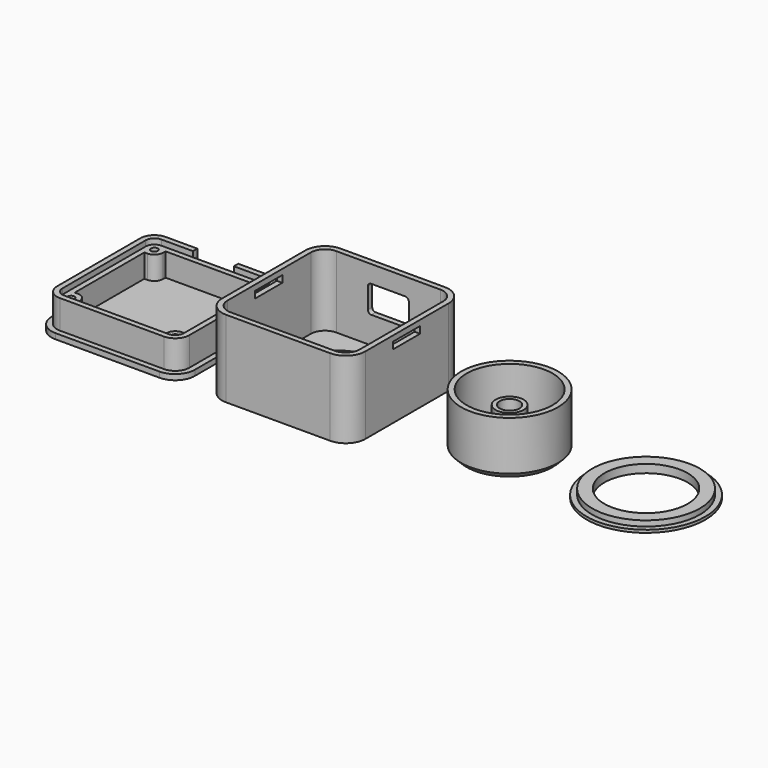
from build123d import *

# Parameters (mm, degrees)
BOX008_W          = 12
BOX008_H          = 10
BOX008_DEPTH      = 8
FILLET007_R       = 1
BOX007_W          = 42
BOX007_H          = 42
BOX007_DEPTH      = 1.6
FILLET006_R       = 5.74
BOX010_W          = 4
BOX010_H          = 10
BOX010_DEPTH      = 2
CHAMFER_SIZE      = 0.8
BOX011_W          = 1.6
BOX011_H          = 10
BOX011_DEPTH      = 2
CHAMFER001_SIZE   = 0.8
CYLINDER001_R     = 1
CYLINDER001_DEPTH = 6.8
CYLINDER002_R     = 1
CYLINDER002_DEPTH = 6.8
CYLINDER003_R     = 1
CYLINDER003_DEPTH = 6.8
CYLINDER_R        = 1
CYLINDER_DEPTH    = 6.8
BOX004_W          = 5.04
BOX004_H          = 5.04
BOX004_DEPTH      = 8.4
FILLET005_R       = 2.54
BOX005_W          = 5.04
BOX005_H          = 5.04
BOX005_DEPTH      = 8.4
FILLET003_R       = 2.54
BOX006_W          = 5.04
BOX006_H          = 5.04
BOX006_DEPTH      = 8.4
FILLET004_R       = 2.54
BOX003_W          = 5.04
BOX003_H          = 5.04
BOX003_DEPTH      = 8.4
FILLET002_R       = 2.54
BOX002_W          = 32.4
BOX002_H          = 32.4
BOX002_DEPTH      = 8.4
BOX001_W          = 35.6
BOX001_H          = 35.6
BOX001_DEPTH      = 1.6
BOX_W             = 38.8
BOX_H             = 38.8
BOX_DEPTH         = 10
FILLET_R          = 2.54
FILLET001_R       = 4.14
CYLINDER011_R     = 12.2
CYLINDER011_DEPTH = 2.4
CYLINDER010_R     = 15.8
CYLINDER010_DEPTH = 2.4
CYLINDER009_R     = 17.4
CYLINDER009_DEPTH = 0.8
CYLINDER008_R     = 2.9
CYLINDER008_DEPTH = 7
CYLINDER007_R     = 4.1
CYLINDER007_DEPTH = 12
CYLINDER006_R     = 12.6
CYLINDER006_DEPTH = 14.4
CYLINDER005_R     = 14.2
CYLINDER005_DEPTH = 16
CHAMFER002_SIZE   = 1.6
CHAMFER003_SIZE   = 1.6
CYLINDER004_R     = 15.8
CYLINDER004_DEPTH = 10
BOX014_W          = 10.4
BOX014_H          = 10
BOX014_DEPTH      = 2
BOX015_W          = 10.4
BOX015_H          = 10
BOX015_DEPTH      = 2
BOX009_W          = 12
BOX009_H          = 10
BOX009_DEPTH      = 8
FILLET008_R       = 1
BOX013_W          = 38.8
BOX013_H          = 38.8
BOX013_DEPTH      = 21
BOX012_W          = 42
BOX012_H          = 42
BOX012_DEPTH      = 22.6
FILLET009_R       = 4.14
FILLET010_R       = 5.74


with BuildPart() as usb:
    # Box008 → Box008 (new body)
    with BuildSketch(Plane(origin=(13.4, 37.2, 7), x_dir=(1, 0, 0), z_dir=(0, 0, 1))):
        with Locations((6, 5)):
            Rectangle(BOX008_W, BOX008_H)
    extrude(amount=BOX008_DEPTH)

    # Fillet007
    fillet007_edges = [usb.edges().sort_by_distance(p)[0] for p in [
        (13.4, 42.2, 15),
        (13.4, 42.2, 7),
        (25.4, 42.2, 15),
        (25.4, 42.2, 7),
    ]]
    fillet(fillet007_edges, radius=FILLET007_R)


with BuildPart() as obj1:
    # Box007 → Box007 (new body)
    with BuildSketch(Plane(origin=(-1.6, -1.6, 0), x_dir=(1, 0, 0), z_dir=(0, 0, 1))):
        with Locations((21, 21)):
            Rectangle(BOX007_W, BOX007_H)
    extrude(amount=BOX007_DEPTH)

    # Fillet006
    fillet006_edges = [obj1.edges().sort_by_distance(p)[0] for p in [
        (-1.6, -1.6, 0.8),
        (-1.6, 40.4, 0.8),
        (40.4, -1.6, 0.8),
        (40.4, 40.4, 0.8),
    ]]
    fillet(fillet006_edges, radius=FILLET006_R)


with BuildPart() as haken1:
    # Box010 → Box010 (new body)
    with BuildSketch(Plane(origin=(-1, 14.4, 3.2), x_dir=(1, 0, 0), z_dir=(0, 0, 1))):
        with Locations((2, 5)):
            Rectangle(BOX010_W, BOX010_H)
    extrude(amount=BOX010_DEPTH)

    # Chamfer
    chamfer_edges = [haken1.edges().sort_by_distance(p)[0] for p in [
        (-1, 19.4, 5.2),
        (-1, 19.4, 3.2),
    ]]
    chamfer(chamfer_edges, length=CHAMFER_SIZE)


with BuildPart() as haken2:
    # Box011 → Box011 (new body)
    with BuildSketch(Plane(origin=(38.2, 14.4, 3.2), x_dir=(1, 0, 0), z_dir=(0, 0, 1))):
        with Locations((0.8, 5)):
            Rectangle(BOX011_W, BOX011_H)
    extrude(amount=BOX011_DEPTH)

    # Chamfer001
    chamfer001_edges = [haken2.edges().sort_by_distance(p)[0] for p in [
        (39.8, 19.4, 5.2),
        (39.8, 19.4, 3.2),
    ]]
    chamfer(chamfer001_edges, length=CHAMFER001_SIZE)


with BuildPart() as cylinder001:
    # Cylinder001 → Cylinder001 (new body)
    with BuildSketch(Plane(origin=(34.66, 4.14, 1.6), x_dir=(1, 0, 0), z_dir=(0, 0, 1))):
        Circle(CYLINDER001_R)
    extrude(amount=CYLINDER001_DEPTH)


with BuildPart() as cylinder002:
    # Cylinder002 → Cylinder002 (new body)
    with BuildSketch(Plane(origin=(4.14, 34.66, 1.6), x_dir=(1, 0, 0), z_dir=(0, 0, 1))):
        Circle(CYLINDER002_R)
    extrude(amount=CYLINDER002_DEPTH)


with BuildPart() as cylinder003:
    # Cylinder003 → Cylinder003 (new body)
    with BuildSketch(Plane(origin=(34.66, 34.66, 1.6), x_dir=(1, 0, 0), z_dir=(0, 0, 1))):
        Circle(CYLINDER003_R)
    extrude(amount=CYLINDER003_DEPTH)


with BuildPart() as obj2:
    # Cylinder → Cylinder (new body)
    with BuildSketch(Plane(origin=(4.14, 4.14, 1.6), x_dir=(1, 0, 0), z_dir=(0, 0, 1))):
        Circle(CYLINDER_R)
    extrude(amount=CYLINDER_DEPTH)

    # Fusion002: union Cylinder001, Cylinder002, Cylinder003
    add(cylinder001.part)
    add(cylinder002.part)
    add(cylinder003.part)


with BuildPart() as obj3:
    # Box004 → Box004 (new body)
    with BuildSketch(Plane(origin=(32.16, 1.6, 0), x_dir=(1, 0, 0), z_dir=(0, 0, 1))):
        with Locations((2.52, 2.52)):
            Rectangle(BOX004_W, BOX004_H)
    extrude(amount=BOX004_DEPTH)

    # Fillet005
    fillet005_edges = [obj3.edges().sort_by_distance(p)[0] for p in [
        (32.16, 6.64, 4.2),
    ]]
    fillet(fillet005_edges, radius=FILLET005_R)


with BuildPart() as obj4:
    # Box005 → Box005 (new body)
    with BuildSketch(Plane(origin=(1.6, 32.16, 0), x_dir=(1, 0, 0), z_dir=(0, 0, 1))):
        with Locations((2.52, 2.52)):
            Rectangle(BOX005_W, BOX005_H)
    extrude(amount=BOX005_DEPTH)

    # Fillet003
    fillet003_edges = [obj4.edges().sort_by_distance(p)[0] for p in [
        (6.64, 32.16, 4.2),
    ]]
    fillet(fillet003_edges, radius=FILLET003_R)


with BuildPart() as obj5:
    # Box006 → Box006 (new body)
    with BuildSketch(Plane(origin=(32.16, 32.16, 0), x_dir=(1, 0, 0), z_dir=(0, 0, 1))):
        with Locations((2.52, 2.52)):
            Rectangle(BOX006_W, BOX006_H)
    extrude(amount=BOX006_DEPTH)

    # Fillet004
    fillet004_edges = [obj5.edges().sort_by_distance(p)[0] for p in [
        (32.16, 32.16, 4.2),
    ]]
    fillet(fillet004_edges, radius=FILLET004_R)


with BuildPart() as obj6:
    # Box003 → Box003 (new body)
    with BuildSketch(Plane(origin=(1.6, 1.6, 0), x_dir=(1, 0, 0), z_dir=(0, 0, 1))):
        with Locations((2.52, 2.52)):
            Rectangle(BOX003_W, BOX003_H)
    extrude(amount=BOX003_DEPTH)

    # Fillet002
    fillet002_edges = [obj6.edges().sort_by_distance(p)[0] for p in [
        (6.64, 6.64, 4.2),
    ]]
    fillet(fillet002_edges, radius=FILLET002_R)

    # Fusion: union obj3, obj4, obj5
    add(obj3.part)
    add(obj4.part)
    add(obj5.part)


with BuildPart() as boden_innen:
    # Box002 → Box002 (new body)
    with BuildSketch(Plane(origin=(3.2, 3.2, 1.6), x_dir=(1, 0, 0), z_dir=(0, 0, 1))):
        with Locations((16.2, 16.2)):
            Rectangle(BOX002_W, BOX002_H)
    extrude(amount=BOX002_DEPTH)


with BuildPart() as boden_auflage:
    # Box001 → Box001 (new body)
    with BuildSketch(Plane(origin=(1.6, 1.6, 8.4), x_dir=(1, 0, 0), z_dir=(0, 0, 1))):
        with Locations((17.8, 17.8)):
            Rectangle(BOX001_W, BOX001_H)
    extrude(amount=BOX001_DEPTH)


with BuildPart() as boden:
    # Box → Box (new body)
    with BuildSketch(Plane.XY):
        with Locations((19.4, 19.4)):
            Rectangle(BOX_W, BOX_H)
    extrude(amount=BOX_DEPTH)

    # Cut: cut Boden_auflage
    add(boden_auflage.part, mode=Mode.SUBTRACT)

    # Cut001: cut Boden_innen
    add(boden_innen.part, mode=Mode.SUBTRACT)

    # Fillet
    fillet_edges = [boden.edges().sort_by_distance(p)[0] for p in [
        (37.2, 1.6, 9.2),
        (37.2, 37.2, 9.2),
        (1.6, 37.2, 9.2),
        (1.6, 1.6, 9.2),
    ]]
    fillet(fillet_edges, radius=FILLET_R)

    # Fillet001
    fillet001_edges = [boden.edges().sort_by_distance(p)[0] for p in [
        (0, 0, 5),
        (0, 38.8, 5),
        (38.8, 38.8, 5),
        (38.8, 0, 5),
    ]]
    fillet(fillet001_edges, radius=FILLET001_R)

    # Fusion001: union obj6
    add(obj6.part)

    # Cut002: cut obj2
    add(obj2.part, mode=Mode.SUBTRACT)

    # Fusion003: union obj1, Haken1, Haken2
    add(obj1.part)
    add(haken1.part)
    add(haken2.part)

    # Cut003: cut USB
    add(usb.part, mode=Mode.SUBTRACT)


with BuildPart() as led_ring_hole:
    # Cylinder011 → Cylinder011 (new body)
    with BuildSketch(Plane(origin=(160, 20, 1), x_dir=(1, 0, 0), z_dir=(0, 0, 1))):
        Circle(CYLINDER011_R)
    extrude(amount=CYLINDER011_DEPTH)


with BuildPart() as led_ring_small:
    # Cylinder010 → Cylinder010 (new body)
    with BuildSketch(Plane(origin=(160, 20, 1), x_dir=(1, 0, 0), z_dir=(0, 0, 1))):
        Circle(CYLINDER010_R)
    extrude(amount=CYLINDER010_DEPTH)


with BuildPart() as led_ring:
    # Cylinder009 → Cylinder009 (new body)
    with BuildSketch(Plane(origin=(160, 20, 1), x_dir=(1, 0, 0), z_dir=(0, 0, 1))):
        Circle(CYLINDER009_R)
    extrude(amount=CYLINDER009_DEPTH)

    # Fusion006: union LED_ring_small
    add(led_ring_small.part)

    # Cut008: cut LED_ring_hole
    add(led_ring_hole.part, mode=Mode.SUBTRACT)


with BuildPart() as shaft_innen:
    # Cylinder008 → Cylinder008 (new body)
    with BuildSketch(Plane(origin=(120, 20, 5), x_dir=(1, 0, 0), z_dir=(0, 0, 1))):
        Circle(CYLINDER008_R)
    extrude(amount=CYLINDER008_DEPTH)


with BuildPart() as shaft:
    # Cylinder007 → Cylinder007 (new body)
    with BuildSketch(Plane(origin=(120, 20, 0), x_dir=(1, 0, 0), z_dir=(0, 0, 1))):
        Circle(CYLINDER007_R)
    extrude(amount=CYLINDER007_DEPTH)

    # Cut007: cut shaft_innen
    add(shaft_innen.part, mode=Mode.SUBTRACT)


with BuildPart() as obj7:
    # Cylinder006 → Cylinder006 (new body)
    with BuildSketch(Plane(origin=(120, 20, 1.6), x_dir=(1, 0, 0), z_dir=(0, 0, 1))):
        Circle(CYLINDER006_R)
    extrude(amount=CYLINDER006_DEPTH)


with BuildPart() as knob:
    # Cylinder005 → Cylinder005 (new body)
    with BuildSketch(Plane(origin=(120, 20, 0), x_dir=(1, 0, 0), z_dir=(0, 0, 1))):
        Circle(CYLINDER005_R)
    extrude(amount=CYLINDER005_DEPTH)

    # Cut006: cut obj7
    add(obj7.part, mode=Mode.SUBTRACT)

    # Chamfer002
    chamfer002_edges = [knob.edges().sort_by_distance(p)[0] for p in [
        (107.4, 20, 1.6),
    ]]
    chamfer(chamfer002_edges, length=CHAMFER002_SIZE)

    # Chamfer003
    chamfer003_edges = [knob.edges().sort_by_distance(p)[0] for p in [
        (105.8, 20, 0),
    ]]
    chamfer(chamfer003_edges, length=CHAMFER003_SIZE)

    # Fusion005: union Shaft
    add(shaft.part)


with BuildPart() as encoder_loch:
    # Cylinder004 → Cylinder004 (new body)
    with BuildSketch(Plane(origin=(69.4, 19.4, 0), x_dir=(1, 0, 0), z_dir=(0, 0, 1))):
        Circle(CYLINDER004_R)
    extrude(amount=CYLINDER004_DEPTH)


with BuildPart() as oese1:
    # Box014 → Box014 (new body)
    with BuildSketch(Plane(origin=(46, 14.2, 19), x_dir=(1, 0, 0), z_dir=(0, 0, 1))):
        with Locations((5.2, 5)):
            Rectangle(BOX014_W, BOX014_H)
    extrude(amount=BOX014_DEPTH)


with BuildPart() as oese2:
    # Box015 → Box015 (new body)
    with BuildSketch(Plane(origin=(83, 14.2, 19), x_dir=(1, 0, 0), z_dir=(0, 0, 1))):
        with Locations((5.2, 5)):
            Rectangle(BOX015_W, BOX015_H)
    extrude(amount=BOX015_DEPTH)


with BuildPart() as obj8:
    # Box009 → Box009 (new body)
    with BuildSketch(Plane(origin=(13.4, 37.2, 7), x_dir=(1, 0, 0), z_dir=(0, 0, 1))):
        with Locations((6, 5)):
            Rectangle(BOX009_W, BOX009_H)
    extrude(amount=BOX009_DEPTH)

    # Fillet008
    fillet008_edges = [obj8.edges().sort_by_distance(p)[0] for p in [
        (13.4, 42.2, 15),
        (13.4, 42.2, 7),
        (25.4, 42.2, 15),
        (25.4, 42.2, 7),
    ]]
    fillet(fillet008_edges, radius=FILLET008_R)


with BuildPart() as obj8_1:
    # Fillet008 placement: moved
    add(obj8.part.moved(Location((50, 0, 2.5))))

    # Fusion004: union Encoder_loch, Oese1, Oese2
    add(encoder_loch.part)
    add(oese1.part)
    add(oese2.part)


with BuildPart() as oben_innen:
    # Box013 → Box013 (new body)
    with BuildSketch(Plane(origin=(50, 0, 1.6), x_dir=(1, 0, 0), z_dir=(0, 0, 1))):
        with Locations((19.4, 19.4)):
            Rectangle(BOX013_W, BOX013_H)
    extrude(amount=BOX013_DEPTH)


with BuildPart() as deckel:
    # Box012 → Box012 (new body)
    with BuildSketch(Plane(origin=(48.4, -1.6, 0), x_dir=(1, 0, 0), z_dir=(0, 0, 1))):
        with Locations((21, 21)):
            Rectangle(BOX012_W, BOX012_H)
    extrude(amount=BOX012_DEPTH)

    # Cut009: cut oben_innen
    add(oben_innen.part, mode=Mode.SUBTRACT)

    # Fillet009
    fillet009_edges = [deckel.edges().sort_by_distance(p)[0] for p in [
        (50, 0, 12.1),
        (50, 38.8, 12.1),
        (88.8, 0, 12.1),
        (88.8, 38.8, 12.1),
    ]]
    fillet(fillet009_edges, radius=FILLET009_R)

    # Fillet010
    fillet010_edges = [deckel.edges().sort_by_distance(p)[0] for p in [
        (48.4, -1.6, 11.3),
        (48.4, 40.4, 11.3),
        (90.4, 40.4, 11.3),
        (90.4, -1.6, 11.3),
    ]]
    fillet(fillet010_edges, radius=FILLET010_R)

    # Cut010: cut obj8
    add(obj8_1.part, mode=Mode.SUBTRACT)


solid = Compound([boden.part, led_ring.part, knob.part, deckel.part])
